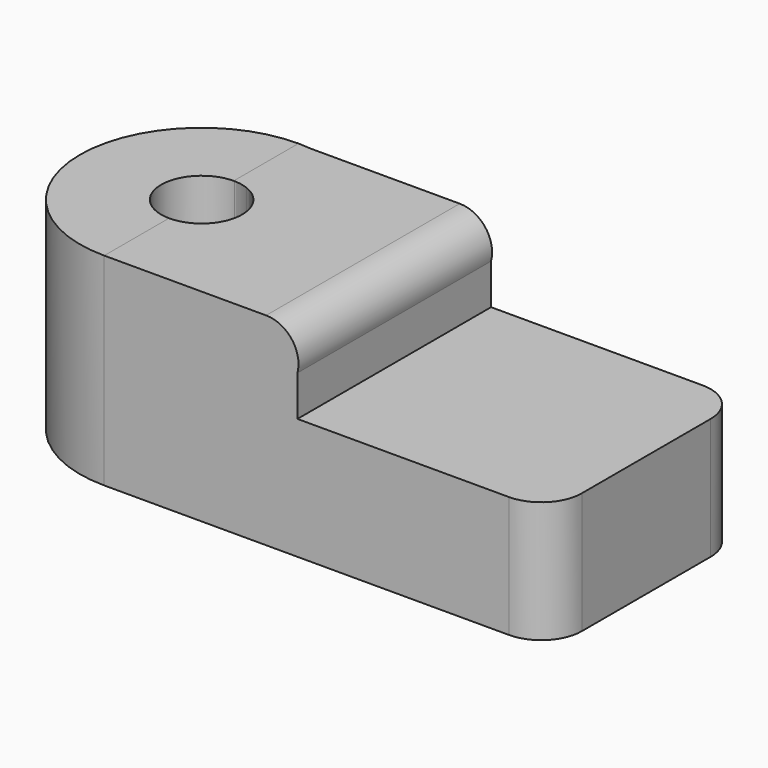
from build123d import *

# Parameters (mm, degrees)
F2_DEPTH      = 15
F2_DEPTH_BACK = 14.9
F4_D          = 10
F4_2_D        = 10
F5_R          = 5


with BuildPart() as f1:
    # F0 (on Front) → F1 (revolve)
    with BuildSketch(Plane.XZ):
        Polygon((-35.136436, 0), (-35.136436, 15), (-35.136436, 25), (-50.136436, 25), (-50.136436, 0), align=None)
    revolve(axis=Axis((-50.136436, 0, 12.5), (0, 0, -1)))

    # F4 (through all)
    with Locations(Plane(origin=(0, 0, 0), x_dir=(1, 0, 0), z_dir=(0, 0, -1))):
        with Locations((-50.102301, 0)):
            Hole(F4_D / 2)


with BuildPart() as f2:
    # F0 (on Front) → F2 (new body, two sides)
    with BuildSketch(Plane.XZ) as f2_sk:
        Polygon((-26.263453, 15), (-35.136436, 15), (-35.136436, 0), (4.863564, 0), (4.863564, 15), align=None)
        with BuildLine():
            Line((-35.136436, 25), (-35.136436, 15))
            Line((-35.136436, 15), (-26.263453, 15))
            Line((-26.263453, 15), (-26.263453, 20))
            ThreePointArc((-26.263453, 20), (-26.974158, 23.44949), (-30.136436, 25))
            Line((-30.136436, 25), (-35.136436, 25))
        make_face()
        Polygon((-35.136436, 0), (-35.136436, 15), (-35.136436, 25), (-50.136436, 25), (-50.136436, 0), align=None)
    extrude(amount=F2_DEPTH)
    extrude(f2_sk.sketch, amount=-F2_DEPTH_BACK)

    # F4#2 (through all)
    with Locations(Plane(origin=(0, 0, 0), x_dir=(1, 0, 0), z_dir=(0, 0, -1))):
        with Locations((-50.102301, 0)):
            Hole(F4_2_D / 2)

    # F5
    f5_edges = [f2.edges().sort_by_distance(p)[0] for p in [
        (4.863564, 14.9, 7.5),
        (4.863564, -15, 7.5),
    ]]
    fillet(f5_edges, radius=F5_R)


solid = Compound([f1.part, f2.part])
